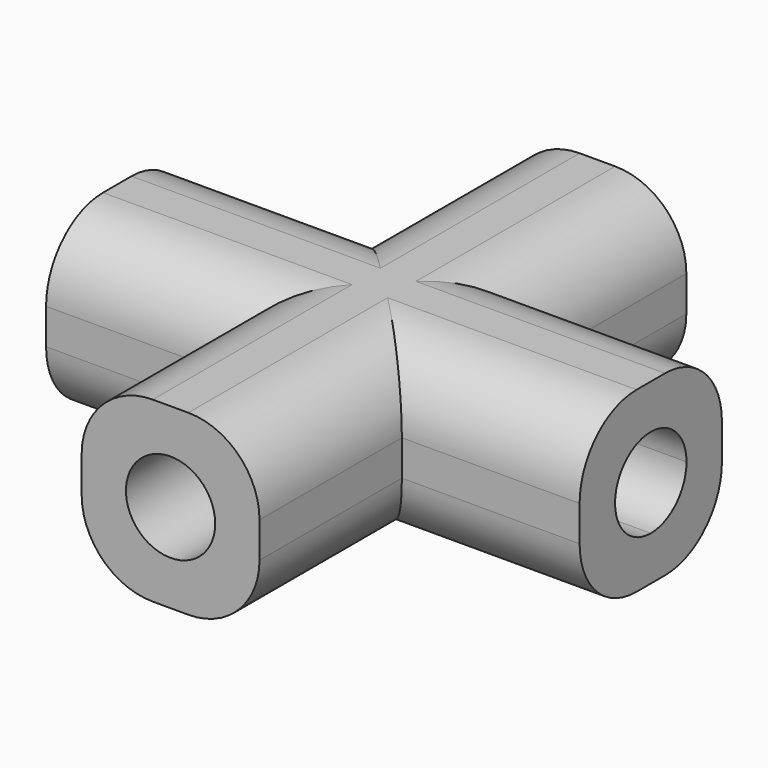
from build123d import *

# Parameters (mm, degrees)
F0_W     = 12.7
F0_H     = 12.7
F1_DEPTH = 12.7
F4_DEPTH = 50.8
F3_R     = 3.1877
F5_DEPTH = 76.2
F6_R     = 5.08


with BuildPart() as f1:
    # F0 (on Top) → F1 (new body)
    with BuildSketch(Plane.XY):
        with Locations((0, 12.7)):
            Rectangle(F0_W, F0_H)
        with Locations((12.7, 0)):
            Rectangle(F0_W, F0_H)
        Rectangle(F0_W, F0_H)
        with Locations((-12.7, 0)):
            Rectangle(F0_W, F0_H)
        with Locations((0, -12.7)):
            Rectangle(F0_W, F0_H)
    extrude(amount=F1_DEPTH)

    # F2 (on face) → F4 (cut)
    with BuildSketch(Plane.YZ.offset(19.05)):
        with BuildLine():
            Line((0, 3.1623), (0, 9.5377))
            ThreePointArc((0, 9.5377), (-3.1877, 6.35), (0, 3.1623))
        make_face()
        with BuildLine():
            ThreePointArc((3.1877, 6.35), (2.2540442864, 8.6040442864), (0, 9.5377))
            Line((0, 9.5377), (0, 3.1623))
            ThreePointArc((0, 3.1623), (2.2540442864, 4.0959557136), (3.1877, 6.35))
        make_face()
    extrude(amount=-F4_DEPTH, mode=Mode.SUBTRACT)

    # F3 (on face) → F5 (cut)
    with BuildSketch(Plane.XZ.offset(19.05)):
        with Locations((0, 6.35)):
            Circle(F3_R)
    extrude(amount=-F5_DEPTH, mode=Mode.SUBTRACT)

    # F6
    f6_edges = [f1.edges().sort_by_distance(p)[0] for p in [
        (-6.35, -12.7, 0),
        (6.35, -12.7, 0),
        (12.7, -6.35, 0),
        (12.7, 6.35, 0),
        (6.35, 12.7, 0),
        (-6.35, 12.7, 0),
        (-12.7, -6.35, 0),
        (-12.7, 6.35, 0),
        (-12.7, -6.35, 12.7),
        (-6.35, -12.7, 12.7),
        (12.7, -6.35, 12.7),
        (-12.7, 6.35, 12.7),
        (-6.35, 12.7, 12.7),
        (6.35, 12.7, 12.7),
        (6.35, -12.7, 12.7),
        (12.7, 6.35, 12.7),
    ]]
    fillet(f6_edges, radius=F6_R)


solid = f1.part
